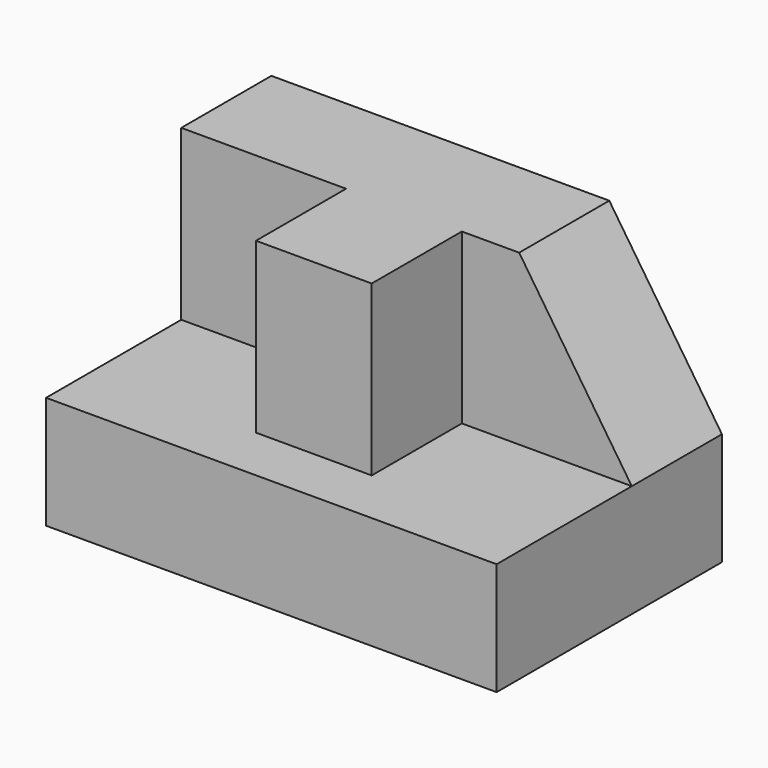
from build123d import *

# Parameters (mm, degrees)
F0_W     = 50.8
F0_H     = 31.75
F1_DEPTH = 31.75
F2_W     = 19.05
F2_H     = 19.05
F3_DEPTH = 50.8
F5_DEPTH = 25.4
F6_W     = 13.051277
F6_H     = 19.05
F7_DEPTH = 12.7


with BuildPart() as f1:
    # F0 (on Front) → F1 (new body)
    with BuildSketch(Plane.XZ):
        with Locations((25.4, 15.875)):
            Rectangle(F0_W, F0_H)
    extrude(amount=F1_DEPTH)

    # F2 (on face) → F3 (cut)
    with BuildSketch(Plane.YZ.offset(50.8)):
        with Locations((-22.225, 22.225)):
            Rectangle(F2_W, F2_H)
    extrude(amount=-F3_DEPTH, mode=Mode.SUBTRACT)

    # F4 (on face) → F5 (cut)
    with BuildSketch(Plane.XZ.offset(12.7)):
        Polygon((50.8, 31.75), (38.1, 31.75), (50.8, 12.7), align=None)
    extrude(amount=-F5_DEPTH, mode=Mode.SUBTRACT)

    # F6 (on face) → F7 (join)
    with BuildSketch(Plane.XZ.offset(12.7)):
        with Locations((25.109522, 22.225)):
            Rectangle(F6_W, F6_H)
    extrude(amount=F7_DEPTH)


solid = f1.part
